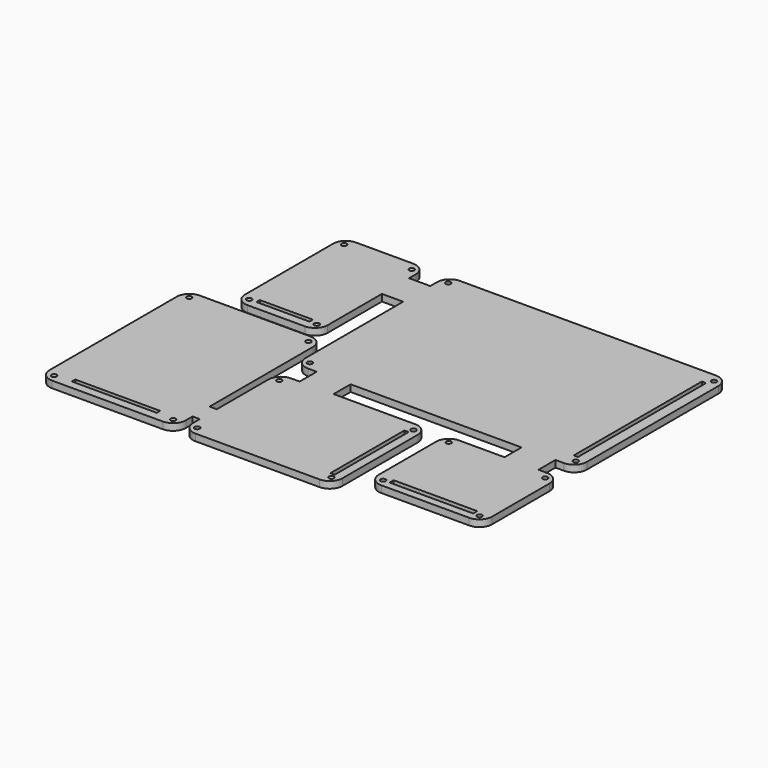
from build123d import *

# Parameters (mm, degrees)
SKETCH_R   = 0.6
SKETCH_W   = 1
SKETCH_H   = 37.72
SKETCH_H_2 = 21.76
SKETCH_W_2 = 19.7
SKETCH_H_3 = 1.2
SKETCH_W_3 = 12.5
SKETCH_H_4 = 1
SKETCH_W_4 = 20
PAD_DEPTH  = 1.6


with BuildPart() as part:
    # Sketch → Pad (new body)
    with BuildSketch(Plane.XY):
        with BuildLine():
            Line((-30.13, 22.36), (30.13, 22.36))
            ThreePointArc((33.13, 19.36), (32.25132, 21.48132), (30.13, 22.36))
            Line((33.13, 19.36), (33.13, -19.36))
            ThreePointArc((30.13, -22.36), (32.25132, -21.48132), (33.13, -19.36))
            Line((28.13, -22.36), (30.13, -22.36))
            Line((28.13, -22.36), (28.13, -27.36))
            Line((28.13, -27.36), (30.13, -27.36))
            ThreePointArc((33.13, -30.36), (32.25132, -28.23868), (30.13, -27.36))
            Line((33.13, -30.36), (33.13, -47.26))
            ThreePointArc((30.13, -50.26), (32.25132, -49.38132), (33.13, -47.26))
            Line((30.13, -50.26), (9.43, -50.26))
            ThreePointArc((6.43, -47.26), (7.30868, -49.38132), (9.43, -50.26))
            Line((6.43, -47.26), (6.43, -30.36))
            ThreePointArc((9.43, -27.36), (7.30868, -28.23868), (6.43, -30.36))
            Line((9.43, -27.36), (20.13, -27.36))
            Line((20.13, -27.36), (20.13, -22.36))
            Line((20.13, -22.36), (-20.13, -22.36))
            Line((-20.13, -22.36), (-20.13, -27.36))
            Line((-20.13, -27.36), (-0.91, -27.36))
            ThreePointArc((2.09, -30.36), (1.21132, -28.23868), (-0.91, -27.36))
            Line((2.09, -30.36), (2.09, -52.52))
            ThreePointArc((-0.91, -55.52), (1.21132, -54.64132), (2.09, -52.52))
            Line((-30.13, -55.52), (-0.91, -55.52))
            ThreePointArc((-33.13, -52.519977), (-32.251329, -54.641312), (-30.13, -55.52))
            Line((-33.13, -52.519977), (-33.13, -50.519977))
            Line((-33.13, -50.519977), (-34.83, -50.519977))
            Line((-34.83, -52.519977), (-34.83, -50.519977))
            ThreePointArc((-37.83, -55.52), (-35.708671, -54.641312), (-34.83, -52.519977))
            Line((-37.83, -55.52), (-63.9, -55.52))
            ThreePointArc((-66.9, -52.52), (-66.02132, -54.64132), (-63.9, -55.52))
            Line((-66.9, -52.52), (-66.9, -15.09))
            ThreePointArc((-63.9, -12.09), (-66.02132, -12.96868), (-66.9, -15.09))
            Line((-63.9, -12.09), (-37.83, -12.09))
            ThreePointArc((-34.83, -15.09), (-35.70868, -12.96868), (-37.83, -12.09))
            Line((-34.83, -15.09), (-34.83, -45.519977))
            Line((-33.13, -45.519977), (-34.83, -45.519977))
            Line((-33.13, -30.36), (-33.13, -45.519977))
            ThreePointArc((-30.13, -27.36), (-32.25132, -28.23868), (-33.13, -30.36))
            Line((-28.13, -27.36), (-30.13, -27.36))
            Line((-28.13, -22.36), (-28.13, -27.36))
            Line((-30.13, -22.36), (-28.13, -22.36))
            ThreePointArc((-33.13, -19.36), (-32.25132, -21.48132), (-30.13, -22.36))
            Line((-33.13, -17.86), (-33.13, -19.36))
            Line((-33.13, 9.36), (-33.13, -17.86))
            Line((-33.13, 9.36), (-38.13, 9.36))
            Line((-38.13, -6.59), (-38.13, 9.36))
            ThreePointArc((-41.13, -9.59), (-39.00868, -8.71132), (-38.13, -6.59))
            Line((-41.13, -9.59), (-54.63, -9.59))
            ThreePointArc((-57.63, -6.59), (-56.75132, -8.71132), (-54.63, -9.59))
            Line((-57.63, -6.59), (-57.63, 19.36))
            ThreePointArc((-54.63, 22.36), (-56.75132, 21.48132), (-57.63, 19.36))
            Line((-54.63, 22.36), (-41.13, 22.36))
            ThreePointArc((-38.13, 19.36), (-39.00868, 21.48132), (-41.13, 22.36))
            Line((-38.13, 19.36), (-38.13, 17.36))
            Line((-38.13, 17.36), (-33.13, 17.36))
            Line((-33.13, 19.405686), (-33.13, 17.36))
            ThreePointArc((-30.13, 22.36), (-32.23523, 21.497432), (-33.13, 19.405686))
        make_face()
        with Locations((-31.33, 20.36)):
            Circle(SKETCH_R, mode=Mode.SUBTRACT)
        with Locations((-31.33, -20.36)):
            Circle(SKETCH_R, mode=Mode.SUBTRACT)
        with Locations((31.33, 20.36)):
            Circle(SKETCH_R, mode=Mode.SUBTRACT)
        with Locations((31.33, -20.36)):
            Circle(SKETCH_R, mode=Mode.SUBTRACT)
        with Locations((-31.33, -29.36)):
            Circle(SKETCH_R, mode=Mode.SUBTRACT)
        with Locations((-31.33, -53.52)):
            Circle(SKETCH_R, mode=Mode.SUBTRACT)
        with Locations((0.29, -29.36)):
            Circle(SKETCH_R, mode=Mode.SUBTRACT)
        with Locations((0.29, -53.52)):
            Circle(SKETCH_R, mode=Mode.SUBTRACT)
        with Locations((8.43, -48.46)):
            Circle(SKETCH_R, mode=Mode.SUBTRACT)
        with Locations((31.13, -29.16)):
            Circle(SKETCH_R, mode=Mode.SUBTRACT)
        with Locations((31.13, -48.46)):
            Circle(SKETCH_R, mode=Mode.SUBTRACT)
        with Locations((8.43, -29.16)):
            Circle(SKETCH_R, mode=Mode.SUBTRACT)
        with Locations((-55.83, 20.36)):
            Circle(SKETCH_R, mode=Mode.SUBTRACT)
        with Locations((-39.93, -7.59)):
            Circle(SKETCH_R, mode=Mode.SUBTRACT)
        with Locations((-55.83, -7.59)):
            Circle(SKETCH_R, mode=Mode.SUBTRACT)
        with Locations((-39.93, 20.36)):
            Circle(SKETCH_R, mode=Mode.SUBTRACT)
        with Locations((-64.9, -13.89)):
            Circle(SKETCH_R, mode=Mode.SUBTRACT)
        with Locations((-36.83, -13.89)):
            Circle(SKETCH_R, mode=Mode.SUBTRACT)
        with Locations((-36.83, -53.72)):
            Circle(SKETCH_R, mode=Mode.SUBTRACT)
        with Locations((-64.9, -53.72)):
            Circle(SKETCH_R, mode=Mode.SUBTRACT)
        with Locations((30.13, 0)):
            Rectangle(SKETCH_W, SKETCH_H, mode=Mode.SUBTRACT)
        with Locations((-0.41, -41.44)):
            Rectangle(SKETCH_W, SKETCH_H_2, mode=Mode.SUBTRACT)
        with Locations((19.78, -47.86)):
            Rectangle(SKETCH_W_2, SKETCH_H_3, mode=Mode.SUBTRACT)
        with Locations((-47.88, -7.09)):
            Rectangle(SKETCH_W_3, SKETCH_H_4, mode=Mode.SUBTRACT)
        with Locations((-50.865, -53.02)):
            Rectangle(SKETCH_W_4, SKETCH_H_4, mode=Mode.SUBTRACT)
    extrude(amount=PAD_DEPTH)


solid = part.part
